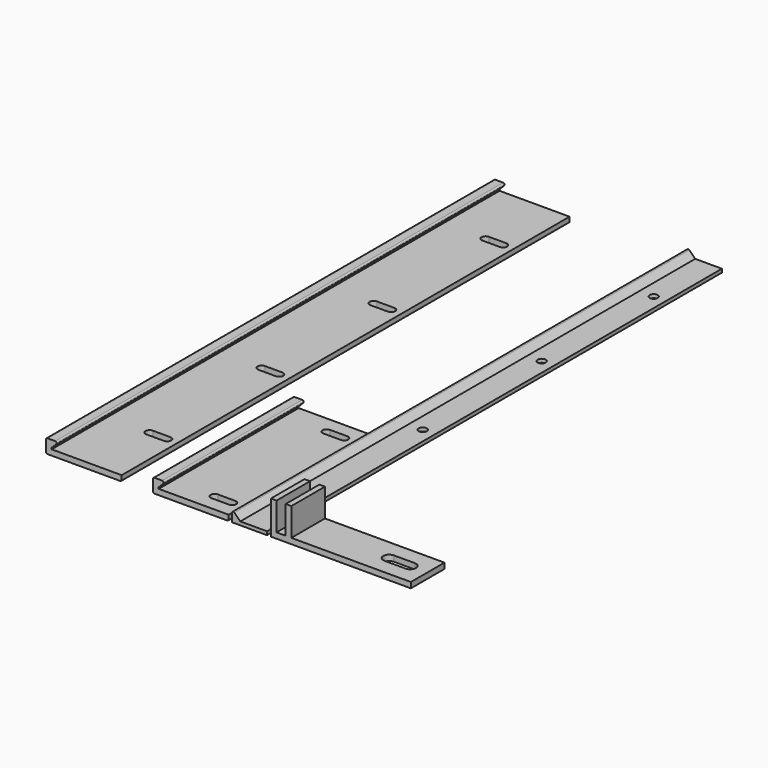
from build123d import *

# Parameters (mm, degrees)
F0_W      = 25.4
F0_H      = 63.5
F1_DEPTH  = 2.032
F3_DEPTH  = 63.5
F4_R      = 0.508
F6_DEPTH  = 2.032
F8_DEPTH  = 206.375
F9_R      = 1.4605
F10_DEPTH = 1.27
F12_DEPTH = 15.24
F14_DEPTH = 2.032
F16_DEPTH = 203.2
F18_DEPTH = 2.032


with BuildPart() as f1:
    # F0 (on Top) → F1 (new body)
    with BuildSketch(Plane.XY):
        with Locations((21.06514, 31.75)):
            Rectangle(F0_W, F0_H)
    extrude(amount=F1_DEPTH)

    # F2 (on face) → F3 (join)
    with BuildSketch(Plane.XZ):
        with BuildLine():
            Line((6.84114, 0), (8.36514, 0))
            Line((8.36514, 0), (8.36514, 2.54))
            Line((8.36514, 2.54), (10.037929, 4.21279))
            ThreePointArc((10.037929, 4.21279), (10.14805, 4.766403), (9.678719, 5.08))
            Line((9.678719, 5.08), (6.84114, 5.08))
            ThreePointArc((6.84114, 5.08), (6.481929, 4.93121), (6.33314, 4.572))
            Line((6.33314, 4.572), (6.33314, 0.508))
            ThreePointArc((6.33314, 0.508), (6.481929, 0.14879), (6.84114, 0))
        make_face()
    extrude(amount=-F3_DEPTH)

    # F4
    f4_edges = [f1.edges().sort_by_distance(p)[0] for p in [
        (33.76514, 31.75, 0),
    ]]
    fillet(f4_edges, radius=F4_R)

    # F5 (on face) → F6 (cut, through all)
    with BuildSketch(Plane.XY.offset(2.032)):
        with BuildLine():
            Line((23.60514, 4.8895), (29.95514, 4.8895))
            ThreePointArc((29.95514, 4.8895), (31.41564, 6.35), (29.95514, 7.8105))
            Line((29.95514, 7.8105), (23.60514, 7.8105))
            ThreePointArc((23.60514, 7.8105), (22.14464, 6.35), (23.60514, 4.8895))
        make_face()
        with BuildLine():
            Line((23.60514, 55.6895), (29.95514, 55.6895))
            ThreePointArc((29.95514, 55.6895), (31.41564, 57.15), (29.95514, 58.6105))
            Line((29.95514, 58.6105), (23.60514, 58.6105))
            ThreePointArc((23.60514, 58.6105), (22.14464, 57.15), (23.60514, 55.6895))
        make_face()
    extrude(amount=-F6_DEPTH, mode=Mode.SUBTRACT)


with BuildPart() as f8:
    # F7 (on Front) → F8 (new body)
    with BuildSketch(Plane.XZ):
        with BuildLine():
            ThreePointArc((35.851475, 3.40721), (35.297861, 3.517331), (34.984265, 3.048))
            Line((34.984265, 3.048), (34.984265, 0))
            Line((34.984265, 0), (47.684265, 0))
            Line((47.684265, 0), (47.684265, 1.27))
            Line((47.684265, 1.27), (37.988685, 1.27))
            Line((37.988685, 1.27), (35.851475, 3.40721))
        make_face()
    extrude(amount=-F8_DEPTH)

    # F9 (on face) → F10 (cut, through all)
    with BuildSketch(Plane.XY.offset(1.27)):
        with Locations((43.239265, 180.975)):
            Circle(F9_R)
        with Locations((43.239265, 130.175)):
            Circle(F9_R)
        with Locations((43.239265, 76.2)):
            Circle(F9_R)
        with Locations((43.239265, 25.4)):
            Circle(F9_R)
    extrude(amount=-F10_DEPTH, mode=Mode.SUBTRACT)


with BuildPart() as f12:
    # F11 (on Front) → F12 (new body)
    with BuildSketch(Plane.XZ):
        Polygon((49.086587, 12.192), (49.086587, 0), (99.886587, 0), (99.886587, 2.032), (56.503387, 2.032), (56.503387, 12.192), (54.471387, 12.192), (54.471387, 2.032), (51.118587, 2.032), (51.118587, 12.192), align=None)
    extrude(amount=-F12_DEPTH)

    # F13 (on face) → F14 (cut, through all)
    with BuildSketch(Plane.XY.offset(2.032)):
        with BuildLine():
            Line((93.536587, 9.7536), (85.916587, 9.7536))
            ThreePointArc((85.916587, 9.7536), (83.782987, 7.62), (85.916587, 5.4864))
            Line((85.916587, 5.4864), (93.536587, 5.4864))
            ThreePointArc((93.536587, 5.4864), (95.670187, 7.62), (93.536587, 9.7536))
        make_face()
    extrude(amount=-F14_DEPTH, mode=Mode.SUBTRACT)


with BuildPart() as f16:
    # F15 (on Front) → F16 (new body)
    with BuildSketch(Plane.XZ):
        with BuildLine():
            Line((-32.004, 0), (-5.588, 0))
            ThreePointArc((-5.588, 0), (-5.22879, 0.14879), (-5.08, 0.508))
            Line((-5.08, 0.508), (-5.08, 2.032))
            Line((-5.08, 2.032), (-30.48, 2.032))
            Line((-30.48, 2.032), (-30.48, 2.54))
            Line((-30.48, 2.54), (-28.80721, 4.21279))
            ThreePointArc((-28.80721, 4.21279), (-28.69709, 4.766403), (-29.16642, 5.08))
            Line((-29.16642, 5.08), (-32.004, 5.08))
            ThreePointArc((-32.004, 5.08), (-32.36321, 4.93121), (-32.512, 4.572))
            Line((-32.512, 4.572), (-32.512, 0.508))
            ThreePointArc((-32.512, 0.508), (-32.36321, 0.14879), (-32.004, 0))
        make_face()
    extrude(amount=-F16_DEPTH)

    # F17 (on face) → F18 (cut, through all)
    with BuildSketch(Plane.XY.offset(2.032)):
        with BuildLine():
            Line((-15.24, 23.9268), (-8.89, 23.9268))
            ThreePointArc((-8.89, 23.9268), (-7.4168, 25.4), (-8.89, 26.8732))
            Line((-8.89, 26.8732), (-15.24, 26.8732))
            ThreePointArc((-15.24, 26.8732), (-16.7132, 25.4), (-15.24, 23.9268))
        make_face()
        with BuildLine():
            Line((-15.24, 74.7268), (-8.89, 74.7268))
            ThreePointArc((-8.89, 74.7268), (-7.4168, 76.2), (-8.89, 77.6732))
            Line((-8.89, 77.6732), (-15.24, 77.6732))
            ThreePointArc((-15.24, 77.6732), (-16.7132, 76.2), (-15.24, 74.7268))
        make_face()
        with BuildLine():
            Line((-15.24, 125.5268), (-8.89, 125.5268))
            ThreePointArc((-8.89, 125.5268), (-7.4168, 127), (-8.89, 128.4732))
            Line((-8.89, 128.4732), (-15.24, 128.4732))
            ThreePointArc((-15.24, 128.4732), (-16.7132, 127), (-15.24, 125.5268))
        make_face()
        with BuildLine():
            Line((-15.24, 176.3268), (-8.89, 176.3268))
            ThreePointArc((-8.89, 176.3268), (-7.4168, 177.8), (-8.89, 179.2732))
            Line((-8.89, 179.2732), (-15.24, 179.2732))
            ThreePointArc((-15.24, 179.2732), (-16.7132, 177.8), (-15.24, 176.3268))
        make_face()
    extrude(amount=-F18_DEPTH, mode=Mode.SUBTRACT)


solid = Compound([f1.part, f8.part, f12.part, f16.part])
